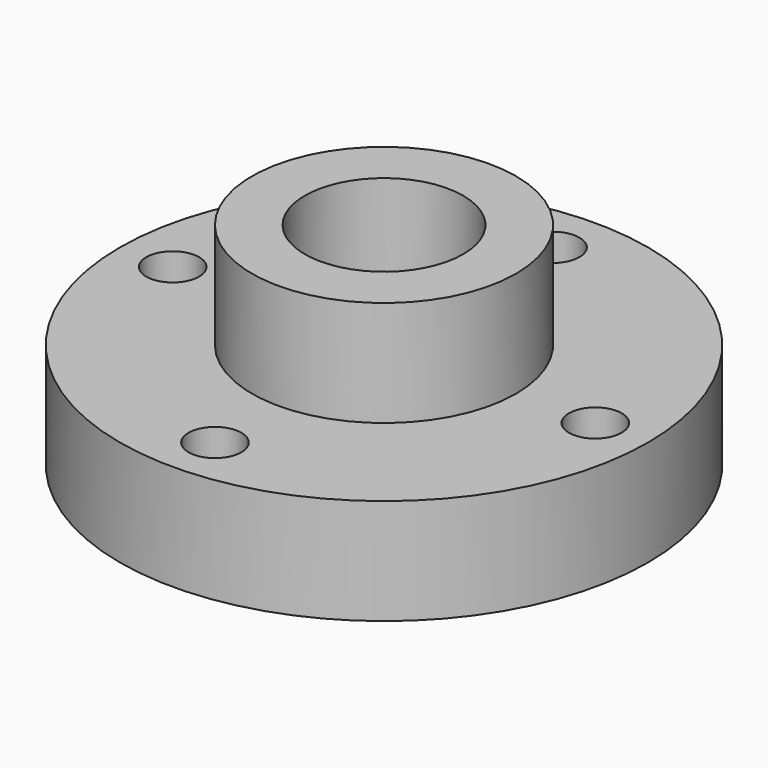
from build123d import *

# Parameters (mm, degrees)
F0_R     = 31.75
F0_R_2   = 3.175
F0_R_3   = 15.875
F0_R_4   = 9.525
F1_DEPTH = 12.7
F2_DEPTH = 12.7


with BuildPart() as f1:
    # F0 (on Top) → F1 (new body)
    with BuildSketch(Plane.XY):
        Circle(F0_R)
        with Locations((0, -25.4)):
            Circle(F0_R_2, mode=Mode.SUBTRACT)
        with Locations((-25.4, 0)):
            Circle(F0_R_2, mode=Mode.SUBTRACT)
        Circle(F0_R_3, mode=Mode.SUBTRACT)
        with Locations((25.4, 0)):
            Circle(F0_R_2, mode=Mode.SUBTRACT)
        with Locations((0, 25.4)):
            Circle(F0_R_2, mode=Mode.SUBTRACT)
        Circle(F0_R_3)
        Circle(F0_R_4, mode=Mode.SUBTRACT)
    extrude(amount=-F1_DEPTH)

    # F0 (on Top) → F2 (join)
    with BuildSketch(Plane.XY):
        Circle(F0_R_3)
        Circle(F0_R_4, mode=Mode.SUBTRACT)
    extrude(amount=F2_DEPTH)


solid = f1.part
